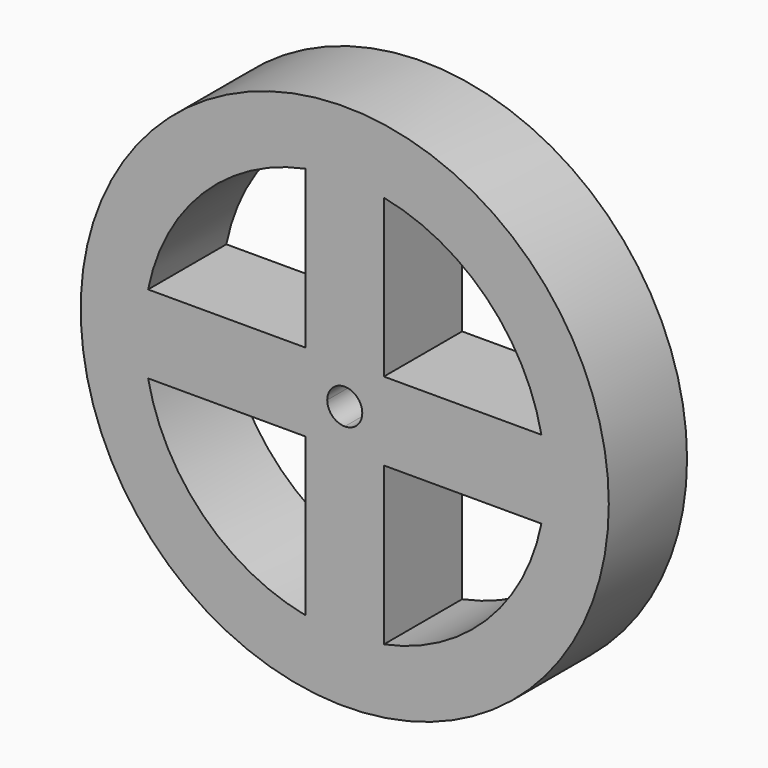
from build123d import *

# Parameters (mm, degrees)
F0_R     = 68.58
F1_DEPTH = 12.7


with BuildPart() as f1:
    # F0 (on Front) → F1 (new body, symmetric)
    with BuildSketch(Plane.XZ):
        Circle(F0_R)
        with BuildLine():
            ThreePointArc((-10.16, -51.067655), (-36.818005, -36.818005), (-51.067655, -10.16))
            Line((-51.067655, -10.16), (-10.16, -10.16))
            Line((-10.16, -10.16), (-10.16, -15.864073))
            Line((-10.16, -15.864073), (-10.16, -51.067655))
        make_face(mode=Mode.SUBTRACT)
        with BuildLine():
            Line((10.16, -51.067655), (10.16, -10.16))
            Line((10.16, -10.16), (51.067655, -10.16))
            ThreePointArc((51.067655, -10.16), (36.818005, -36.818005), (10.16, -51.067655))
        make_face(mode=Mode.SUBTRACT)
        with BuildLine():
            Line((-10.16, 51.067655), (-10.16, 10.16))
            Line((-10.16, 10.16), (-51.067655, 10.16))
            ThreePointArc((-51.067655, 10.16), (-36.818005, 36.818005), (-10.16, 51.067655))
        make_face(mode=Mode.SUBTRACT)
        with BuildLine():
            ThreePointArc((0, 4.552634), (3.219199, 3.219199), (4.552634, 0))
            ThreePointArc((4.552634, 0), (3.219199, -3.219199), (0, -4.552634))
            ThreePointArc((0, -4.552634), (-3.219199, -3.219199), (-4.552634, 0))
            ThreePointArc((-4.552634, 0), (-3.219199, 3.219199), (0, 4.552634))
        make_face(mode=Mode.SUBTRACT)
        with BuildLine():
            Line((51.067655, 10.16), (10.16, 10.16))
            Line((10.16, 10.16), (10.16, 51.067655))
            ThreePointArc((10.16, 51.067655), (36.818005, 36.818005), (51.067655, 10.16))
        make_face(mode=Mode.SUBTRACT)
    extrude(amount=F1_DEPTH, both=True)


solid = f1.part
